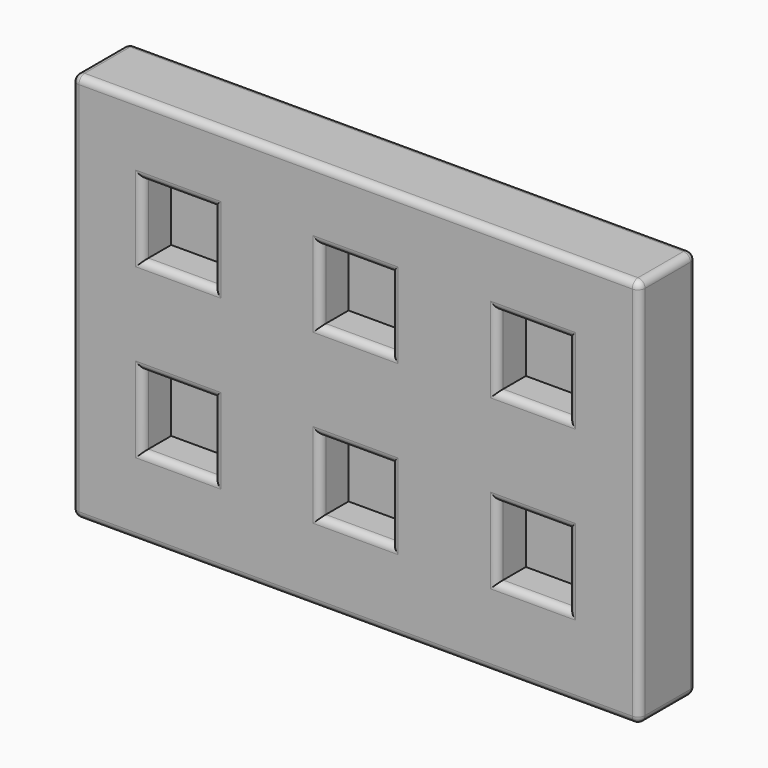
from build123d import *

# Parameters (mm, degrees)
F0_W     = 80
F0_H     = 55
F1_DEPTH = 10
F2_W     = 10
F2_H     = 10
F3_DEPTH = 5
F4_R     = 1


with BuildPart() as f1:
    # F0 (on Front) → F1 (new body)
    with BuildSketch(Plane.XZ):
        with Locations((-69.614079, 6.646032)):
            Rectangle(F0_W, F0_H)
    extrude(amount=F1_DEPTH)

    # F2 (on face) → F3 (cut)
    with BuildSketch(Plane.XZ.offset(10)):
        with Locations((-94.614079, 19.146032)):
            Rectangle(F2_W, F2_H)
        with Locations((-94.614079, -4.553968)):
            Rectangle(F2_W, F2_H)
        with Locations((-69.614079, 19.146032)):
            Rectangle(F2_W, F2_H)
        with Locations((-69.614079, -4.553968)):
            Rectangle(F2_W, F2_H)
        with Locations((-44.614079, 19.146032)):
            Rectangle(F2_W, F2_H)
        with Locations((-44.614079, -4.553968)):
            Rectangle(F2_W, F2_H)
    extrude(amount=-F3_DEPTH, mode=Mode.SUBTRACT)

    # F4
    f4_edges = [f1.edges().sort_by_distance(p)[0] for p in [
        (-69.614079, -10, 34.146032),
        (-29.614079, -10, 6.646032),
        (-109.614079, -10, 6.646032),
        (-69.614079, -10, -20.853968),
        (-89.614079, -10, -4.553968),
        (-94.614079, -10, 0.446032),
        (-99.614079, -10, -4.553968),
        (-94.614079, -10, -9.553968),
        (-64.614079, -10, -4.553968),
        (-69.614079, -10, 0.446032),
        (-74.614079, -10, -4.553968),
        (-69.614079, -10, -9.553968),
        (-39.614079, -10, -4.553968),
        (-44.614079, -10, 0.446032),
        (-49.614079, -10, -4.553968),
        (-44.614079, -10, -9.553968),
        (-89.614079, -10, 19.146032),
        (-94.614079, -10, 24.146032),
        (-99.614079, -10, 19.146032),
        (-94.614079, -10, 14.146032),
        (-64.614079, -10, 19.146032),
        (-69.614079, -10, 24.146032),
        (-74.614079, -10, 19.146032),
        (-69.614079, -10, 14.146032),
        (-39.614079, -10, 19.146032),
        (-44.614079, -10, 24.146032),
        (-49.614079, -10, 19.146032),
        (-44.614079, -10, 14.146032),
        (-69.614079, 0, 34.146032),
        (-109.614079, 0, 6.646032),
        (-69.614079, 0, -20.853968),
        (-29.614079, 0, 6.646032),
        (-29.614079, -5, 34.146032),
        (-29.614079, -5, -20.853968),
        (-109.614079, -5, 34.146032),
        (-109.614079, -5, -20.853968),
    ]]
    fillet(f4_edges, radius=F4_R)


solid = f1.part
